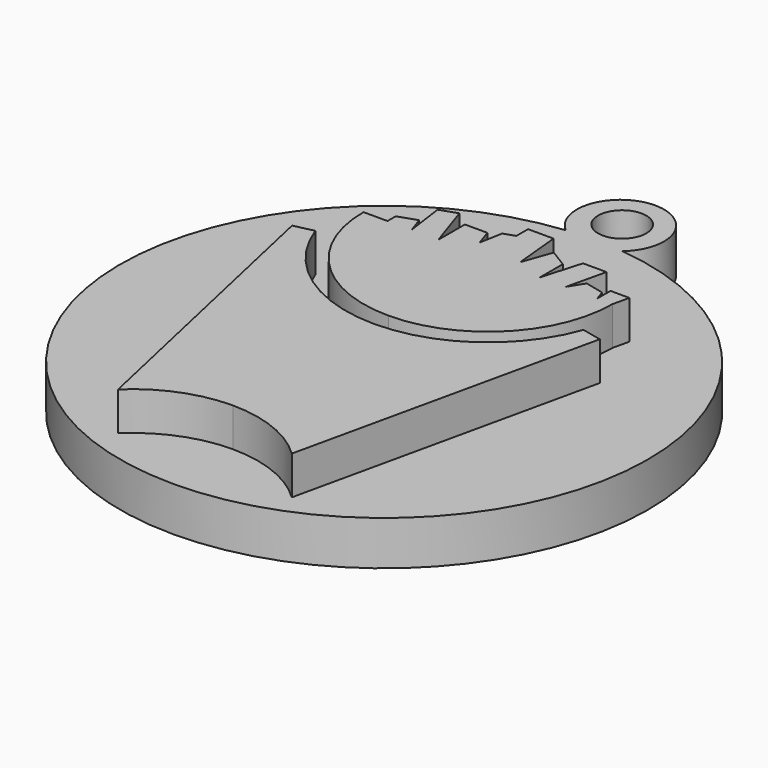
from build123d import *

# Parameters (mm, degrees)
F1_DEPTH = 10.922
F2_R     = 34.7934132073
F3_DEPTH = 5.842
F4_R     = 5.7350404731
F6_DEPTH = 5.842
F8_D     = 6.35


with BuildPart() as f1:
    # F0 (on Top) → F1 (new body)
    with BuildSketch(Plane.XY):
        with BuildLine():
            ThreePointArc((-16.4070340013, 17.1145107597), (-11.6015250015, 5.5129857582), (0, 0.7074767584))
            ThreePointArc((0, 0.7074767584), (11.6015250015, 5.5129857582), (16.4070340013, 17.1145107597))
            Line((16.4070340013, 17.1145107597), (16.9020351022, 19.2860950854))
            Line((16.9020351022, 19.2860950854), (14.4083536053, 19.2860950854))
            Line((14.4083536053, 19.2860950854), (14.4083536053, 17.1145107597))
            Line((14.4083536053, 17.1145107597), (13.9555670321, 18.4676581994))
            Line((13.9555670321, 18.4676581994), (11.462399736, 19.0653000027))
            Line((11.462399736, 19.0653000027), (10.2535923943, 17.1145107597))
            Line((10.2535923943, 17.1145107597), (11.462399736, 22.3139729351))
            Line((11.462399736, 22.3139729351), (8.3648301661, 22.3139729351))
            Line((8.3648301661, 22.3139729351), (6.8538202904, 17.1145107597))
            Line((6.8538202904, 17.1145107597), (6.8538202904, 20.8785124123))
            Line((6.8538202904, 20.8785124123), (4.5117558911, 22.3139729351))
            Line((4.5117558911, 22.3139729351), (3.1518468168, 18.4676581994))
            Line((3.1518468168, 18.4676581994), (2.5474431459, 24.7315876186))
            Line((2.5474431459, 24.7315876186), (-0.8149922269, 24.7315876186))
            Line((-0.8149922269, 24.7315876186), (-0.8149922269, 22.8067958634))
            Line((-0.8149922269, 22.8067958634), (-2.2877878509, 22.3139729351))
            Line((-2.2877878509, 22.3139729351), (-2.8370516593, 19.2860950854))
            Line((-2.8370516593, 19.2860950854), (-3.5721461754, 21.4829165488))
            Line((-3.5721461754, 21.4829165488), (-6.5408538743, 21.4829165488))
            Line((-6.5408538743, 21.4829165488), (-6.5408538743, 17.1145107597))
            Line((-6.5408538743, 17.1145107597), (-8.5341380016, 23.0714173309))
            Line((-8.5341380016, 23.0714173309), (-10.7977518222, 22.3139729351))
            Line((-10.7977518222, 22.3139729351), (-10.0711020896, 17.1145107597))
            Line((-10.0711020896, 17.1145107597), (-10.7977518222, 19.2860950854))
            Line((-10.7977518222, 19.2860950854), (-13.2436409947, 18.4676581994))
            Line((-13.2436409947, 18.4676581994), (-13.2436409947, 17.1145107597))
            Line((-13.2436409947, 17.1145107597), (-16.4070340013, 17.1145107597))
        make_face()
    extrude(amount=F1_DEPTH)


with BuildPart() as f1b:
    # F0 (on Top) → F1, piece 2 (new body)
    with BuildSketch(Plane.XY):
        with BuildLine():
            ThreePointArc((0, -24.9193525969), (6.1655275867, -26.1091748948), (11.4455844786, -29.5077638287))
            Line((11.4455844786, -29.5077638287), (20.2754288912, 10.1880393922))
            Line((20.2754288912, 10.1880393922), (17.6701849203, 10.7675439507))
            ThreePointArc((17.6701849203, 10.7675439507), (10.8016652341, 1.7573153464), (0, -1.6609898406))
            ThreePointArc((0, -1.6609898406), (-10.8016652341, 1.7573153464), (-17.6701849203, 10.7675439507))
            Line((-17.6701849203, 10.7675439507), (-20.2754288912, 10.1880393922))
            Line((-20.2754288912, 10.1880393922), (-11.4455844786, -29.5077638287))
            ThreePointArc((-11.4455844786, -29.5077638287), (-6.1655275867, -26.1091748948), (0, -24.9193525969))
        make_face()
    extrude(amount=F1_DEPTH)


with BuildPart() as f3:
    # F2 (on Top) → F3 (new body)
    with BuildSketch(Plane.XY):
        Circle(F2_R)
    extrude(amount=F3_DEPTH)

    # F4 (on Top) → F6 (join)
    with BuildSketch(Plane.XY):
        with Locations((0, 38.9353483915)):
            Circle(F4_R)
    extrude(amount=F6_DEPTH)

    # F8 (through all)
    with Locations(Plane(origin=(0, 0, 0), x_dir=(1, 0, 0), z_dir=(0, 0, -1))):
        with Locations((0, -39.2205901444)):
            Hole(F8_D / 2)


solid = Compound([f1.part, f1b.part, f3.part])
